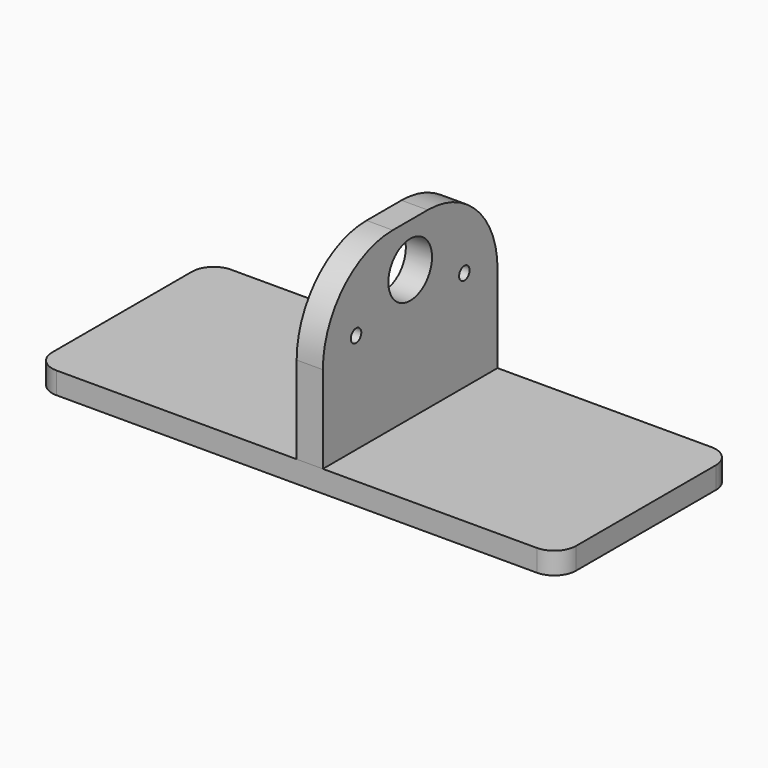
from build123d import *

# Parameters (mm, degrees)
F0_W           = 120
F0_H           = 50
F1_DEPTH       = 5
F3_DEPTH       = 40
F4_R           = 20
F6_D           = 12.5
F7_D           = 3
F8_D           = 3
F8_CBORE_D     = 6
F8_CBORE_DEPTH = 2.5
F9_D           = 2
F9_DEPTH       = 20
F9_TIP         = 0.600860619
F10_R          = 5


with BuildPart() as f1:
    # F0 (on Top) → F1 (new body)
    with BuildSketch(Plane.XY):
        Rectangle(F0_W, F0_H)
    extrude(amount=F1_DEPTH)

    # F8 (through all)
    with Locations(Plane.XY.offset(5)):
        with Locations((3, 12.5), (3, -12.5)):
            CounterBoreHole(F8_D / 2, F8_CBORE_D / 2, F8_CBORE_DEPTH)

    # F10
    f10_edges = [f1.edges().sort_by_distance(p)[0] for p in [
        (-60, -25, 2.5),
        (-60, 25, 2.5),
        (60, -25, 2.5),
        (60, 25, 2.5),
    ]]
    fillet(f10_edges, radius=F10_R)


with BuildPart() as f3:
    # F2 (on face) → F3 (new body)
    with BuildSketch(Plane.XY.offset(5)):
        Polygon((6, 25), (0, 25), (0, 0), align=None)
        Polygon((6, -25), (6, 25), (0, 0), (0, -25), align=None)
    extrude(amount=F3_DEPTH)

    # F4
    f4_edges = [f3.edges().sort_by_distance(p)[0] for p in [
        (3, -25, 45),
        (3, 25, 45),
    ]]
    fillet(f4_edges, radius=F4_R)

    # F6 (through all)
    with Locations(Plane(origin=(0, 0, 0), x_dir=(0, -1, 0), z_dir=(-1, 0, 0))):
        with Locations((0, 35)):
            Hole(F6_D / 2)

    # F7 (through all)
    with Locations(Plane(origin=(0, 0, 0), x_dir=(0, -1, 0), z_dir=(-1, 0, 0))):
        with Locations((-15.5, 28), (15.5, 28)):
            Hole(F7_D / 2)

    # F9
    with Locations(Plane(origin=(0, 0, 5), x_dir=(1, 0, 0), z_dir=(0, 0, -1))):
        with Locations((3, 12.5), (3, -12.5)):
            Hole(F9_D / 2, depth=F9_DEPTH)
            with Locations((0, 0, -(F9_DEPTH + F9_TIP / 2))):  # 118° drill point
                Cone(0, F9_D / 2, F9_TIP, mode=Mode.SUBTRACT)


solid = Compound([f1.part, f3.part])
